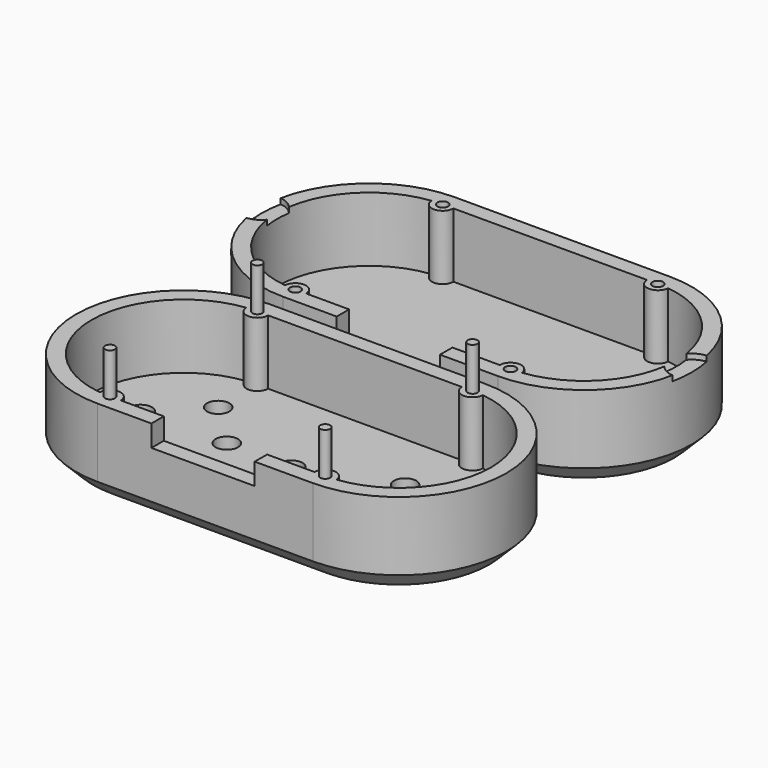
from build123d import *

# Parameters (mm, degrees)
F1_DEPTH   = 25.4
F3_DEPTH   = 19.05
F5_DEPTH   = 19.05
F6_R       = 1.5875
F7_DEPTH   = 12.7
F8_R       = 1.4605
F9_DEPTH   = 12.7
F10_R      = 3.302
F11_DEPTH  = 25.4
F12_SIZE   = 5.08
F12_2_SIZE = 5.08
F13_W      = 30.48
F13_H      = 1.8722803056
F13_H_2    = 4.5719993412
F13_H_3    = 2.0320015848
F14_DEPTH  = 6.35
F15_W      = 30.48
F15_H      = 2.4101203227
F15_H_2    = 4.571998328
F15_H_3    = 1.9078813493
F16_DEPTH  = 6.35
F18_DEPTH  = 1.5875


with BuildPart() as f1:
    # F0 (on Top) → F1 (new body)
    with BuildSketch(Plane.XY):
        with BuildLine():
            Line((63.5, 100.0980230272), (0, 100.0980230272))
            ThreePointArc((0, 100.0980230272), (-31.75, 68.3480230272), (0, 36.5980230272))
            Line((0, 36.5980230272), (63.5, 36.5980230272))
            ThreePointArc((63.5, 36.5980230272), (95.25, 68.3480230272), (63.5, 100.0980230272))
        make_face()
    extrude(amount=F1_DEPTH)

    # F2 (on face) → F3 (cut)
    with BuildSketch(Plane.XY.offset(25.4)):
        with BuildLine():
            Line((60.325, 95.5260246992), (3.175, 95.5260246992))
            ThreePointArc((3.175, 95.5260246992), (0.0927674041, 92.3523802313), (-3.1695790291, 95.3405691031))
            ThreePointArc((-3.1695790291, 95.3405691031), (-27.178001672, 68.3480230272), (-3.1695790291, 41.3554769512))
            ThreePointArc((-3.1695790291, 41.3554769512), (0.0927674041, 44.3436658231), (3.175, 41.1700213552))
            Line((3.175, 41.1700213552), (60.325, 41.1700213552))
            ThreePointArc((60.325, 41.1700213552), (63.4072325959, 44.3436658231), (66.6695790291, 41.3554769512))
            ThreePointArc((66.6695790291, 41.3554769512), (90.678001672, 68.3480230272), (66.6695790291, 95.3405691031))
            ThreePointArc((66.6695790291, 95.3405691031), (63.4072325959, 92.3523802313), (60.325, 95.5260246992))
        make_face()
    extrude(amount=-F3_DEPTH, mode=Mode.SUBTRACT)

    # F6 (on face) → F7 (cut)
    with BuildSketch(Plane.XY.offset(25.4)):
        with Locations((0, 95.5260246992)):
            Circle(F6_R)
        with Locations((0, 41.1700213552)):
            Circle(F6_R)
        with Locations((63.5, 41.1700213552)):
            Circle(F6_R)
        with Locations((63.5, 95.5260246992)):
            Circle(F6_R)
    extrude(amount=-F7_DEPTH, mode=Mode.SUBTRACT)

    # F12#2
    f12_2_edges = [f1.edges().sort_by_distance(p)[0] for p in [
        (31.75, 36.598023, 0),
    ]]
    chamfer(f12_2_edges, length=F12_2_SIZE)

    # F15 (on face) → F16 (cut)
    with BuildSketch(Plane.XY.offset(25.4)):
        with Locations((31.115, 42.3750815165)):
            Rectangle(F15_W, F15_H)
        with Locations((31.115, 38.8840221912)):
            Rectangle(F15_W, F15_H_2)
        with Locations((31.115, 35.6440823525)):
            Rectangle(F15_W, F15_H_3)
    extrude(amount=-F16_DEPTH, mode=Mode.SUBTRACT)

    # F17 (on face) → F18 (cut)
    with BuildSketch(Plane.XY.offset(25.4)):
        with BuildLine():
            ThreePointArc((-26.8721854313, 72.4136625873), (-28.7723743155, 73.9566097728), (-31.115, 74.6661932528))
            ThreePointArc((-31.115, 74.6661932528), (-31.75, 68.3480230272), (-31.115, 62.0298528016))
            ThreePointArc((-31.115, 62.0298528016), (-28.7723743155, 62.7394362816), (-26.8721854313, 64.282383467))
            ThreePointArc((-26.8721854313, 64.282383467), (-27.178001672, 68.3480230272), (-26.8721854313, 72.4136625873))
        make_face()
        with BuildLine():
            ThreePointArc((-25.4, 68.3480230272), (-25.7793793241, 70.5100102483), (-26.8721854313, 72.4136625873))
            ThreePointArc((-26.8721854313, 72.4136625873), (-27.178001672, 68.3480230272), (-26.8721854313, 64.282383467))
            ThreePointArc((-26.8721854313, 64.282383467), (-25.7793793241, 66.1860358061), (-25.4, 68.3480230272))
        make_face()
        with BuildLine():
            ThreePointArc((90.3721854313, 64.282383467), (90.678001672, 68.3480230272), (90.3721854313, 72.4136625873))
            ThreePointArc((90.3721854313, 72.4136625873), (88.9, 68.3480230272), (90.3721854313, 64.282383467))
        make_face()
        with BuildLine():
            ThreePointArc((94.615, 62.0298528016), (95.25, 68.3480230272), (94.615, 74.6661932528))
            ThreePointArc((94.615, 74.6661932528), (92.2723743155, 73.9566097728), (90.3721854313, 72.4136625873))
            ThreePointArc((90.3721854313, 72.4136625873), (90.678001672, 68.3480230272), (90.3721854313, 64.282383467))
            ThreePointArc((90.3721854313, 64.282383467), (92.2723743155, 62.7394362816), (94.615, 62.0298528016))
        make_face()
    extrude(amount=-F18_DEPTH, mode=Mode.SUBTRACT)


with BuildPart() as f1b:
    # F0 (on Top) → F1, piece 2 (new body)
    with BuildSketch(Plane.XY):
        with BuildLine():
            Line((63.5, 31.75), (0, 31.75))
            ThreePointArc((0, 31.75), (-31.75, 0), (0, -31.75))
            Line((0, -31.75), (63.5, -31.75))
            ThreePointArc((63.5, -31.75), (95.25, 0), (63.5, 31.75))
        make_face()
    extrude(amount=F1_DEPTH)

    # F4 (on face) → F5 (cut)
    with BuildSketch(Plane.XY.offset(25.4)):
        with BuildLine():
            Line((60.325, 27.1780006588), (3.175, 27.1780006588))
            ThreePointArc((3.175, 27.1780006588), (0.0927674075, 24.0043561909), (-3.1695790287, 26.9925450558))
            ThreePointArc((-3.1695790287, 26.9925450558), (-27.1780006588, 0), (-3.1695790287, -26.9925450558))
            ThreePointArc((-3.1695790287, -26.9925450558), (0.0927674075, -24.0043561909), (3.175, -27.1780006588))
            Line((3.175, -27.1780006588), (60.325, -27.1780006588))
            ThreePointArc((60.325, -27.1780006588), (63.4072325925, -24.0043561909), (66.6695790287, -26.9925450558))
            ThreePointArc((66.6695790287, -26.9925450558), (90.6780006588, 0), (66.6695790287, 26.9925450558))
            ThreePointArc((66.6695790287, 26.9925450558), (63.4072325925, 24.0043561909), (60.325, 27.1780006588))
        make_face()
    extrude(amount=-F5_DEPTH, mode=Mode.SUBTRACT)

    # F8 (on face) → F9 (join)
    with BuildSketch(Plane.XY.offset(25.4)):
        with Locations((0, 27.1780006588)):
            Circle(F8_R)
        with Locations((0, -27.1780006588)):
            Circle(F8_R)
        with Locations((63.5, -27.1780006588)):
            Circle(F8_R)
        with Locations((63.5, 27.1780006588)):
            Circle(F8_R)
    extrude(amount=F9_DEPTH)

    # F10 (on face) → F11 (cut)
    with BuildSketch(Plane.XY.offset(6.35)):
        with Locations((-12.7, 0.0188922451)):
            Circle(F10_R)
        with Locations((0, -12.6811077549)):
            Circle(F10_R)
        with Locations((0, 12.7188922451)):
            Circle(F10_R)
        with Locations((12.6999718962, 0.0188922451)):
            Circle(F10_R)
        with Locations((31.7500010133, 0.0188922451)):
            Circle(F10_R)
        with Locations((66.6695790287, -8.2227941602)):
            Circle(F10_R)
        with Locations((57.7972121537, 9.4168921933)):
            Circle(F10_R)
    extrude(amount=-F11_DEPTH, mode=Mode.SUBTRACT)

    # F12
    f12_edges = [f1b.edges().sort_by_distance(p)[0] for p in [
        (-31.75, 0, 0),
    ]]
    chamfer(f12_edges, length=F12_SIZE)

    # F13 (on face) → F14 (cut)
    with BuildSketch(Plane.XY.offset(25.4)):
        with Locations((31.1150005066, -26.2418605059)):
            Rectangle(F13_W, F13_H)
        with Locations((31.1150005066, -29.4640003294)):
            Rectangle(F13_W, F13_H_2)
        with Locations((31.1150005066, -32.7660007924)):
            Rectangle(F13_W, F13_H_3)
    extrude(amount=-F14_DEPTH, mode=Mode.SUBTRACT)


solid = Compound([f1.part, f1b.part])
